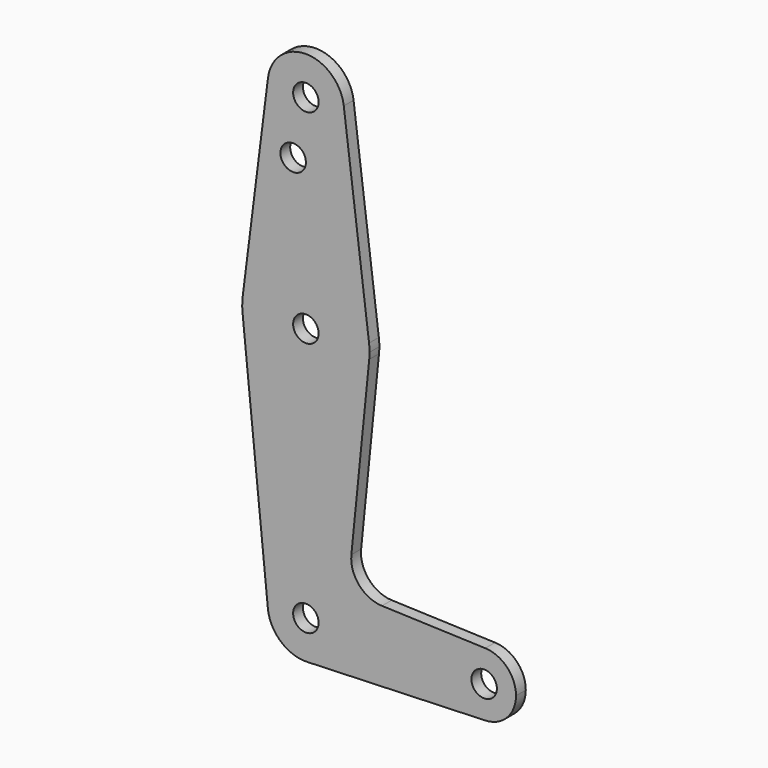
from build123d import *

# Parameters (mm, degrees)
F0_R     = 0.125
F1_DEPTH = 0.12


with BuildPart() as f1:
    # F0 (on Front) → F1 (new body)
    with BuildSketch(Plane.XZ):
        with BuildLine():
            ThreePointArc((1.761161, -0.312301), (1.974882, -0.216989), (2.0625, 0))
            ThreePointArc((2.0625, 0), (1.974882, 0.216989), (1.761161, 0.312301))
            ThreePointArc((1.761161, 0.312301), (1.4375, 0), (1.761161, -0.312301))
        make_face()
        with Locations((1.75, 0)):
            Circle(F0_R, mode=Mode.SUBTRACT)
        with BuildLine():
            ThreePointArc((1.761161, -0.312301), (1.4375, 0), (1.761161, 0.312301))
            Line((1.761161, 0.312301), (0.746756, 0.348553))
            ThreePointArc((0.746756, 0.348553), (0.522094, 0.455565), (0.446503, 0.692653))
            Line((0.446503, 0.692653), (0.621867, 2.4375))
            ThreePointArc((0.621867, 2.4375), (0, 1.875), (-0.621867, 2.4375))
            Line((-0.621867, 2.4375), (-0.37312, -0.0375))
            ThreePointArc((-0.37312, -0.0375), (-0.018774, 0.37453), (0.375, 0))
            ThreePointArc((0.375, 0), (0.269859, -0.260387), (0.013393, -0.374761))
            Line((0.013393, -0.374761), (1.761161, -0.312301))
        make_face()
        with BuildLine():
            ThreePointArc((-0.37312, -0.0375), (-0.246551, -0.282556), (0.013393, -0.374761))
            ThreePointArc((0.013393, -0.374761), (0.269859, -0.260387), (0.375, 0))
            ThreePointArc((0.375, 0), (-0.018774, 0.37453), (-0.37312, -0.0375))
        make_face()
        Circle(F0_R, mode=Mode.SUBTRACT)
        with BuildLine():
            ThreePointArc((-0.621867, 2.4375), (0, 1.875), (0.621867, 2.4375))
            ThreePointArc((0.621867, 2.4375), (0.624216, 2.468711), (0.625, 2.5))
            ThreePointArc((0.625, 2.5), (0.623773, 2.539139), (0.620098, 2.578125))
            ThreePointArc((0.620098, 2.578125), (0, 3.125), (-0.620098, 2.578125))
            ThreePointArc((-0.620098, 2.578125), (-0.624951, 2.507862), (-0.621867, 2.4375))
        make_face()
        with Locations((0, 2.5)):
            Circle(F0_R, mode=Mode.SUBTRACT)
        with BuildLine():
            Line((-0.372059, 4.546875), (-0.620098, 2.578125))
            ThreePointArc((-0.620098, 2.578125), (0, 3.125), (0.620098, 2.578125))
            Line((0.620098, 2.578125), (0.372059, 4.546875))
            ThreePointArc((0.372059, 4.546875), (0.374264, 4.523484), (0.375, 4.5))
            ThreePointArc((0.375, 4.5), (-0.023484, 4.125736), (-0.372059, 4.546875))
        make_face()
        with Locations((-0.125, 3.938)):
            Circle(F0_R, mode=Mode.SUBTRACT)
        with BuildLine():
            ThreePointArc((0.372059, 4.546875), (0, 4.875), (-0.372059, 4.546875))
            ThreePointArc((-0.372059, 4.546875), (-0.023484, 4.125736), (0.375, 4.5))
            ThreePointArc((0.375, 4.5), (0.374264, 4.523484), (0.372059, 4.546875))
        make_face()
        with Locations((0, 4.5)):
            Circle(F0_R, mode=Mode.SUBTRACT)
    extrude(amount=F1_DEPTH)


solid = f1.part
